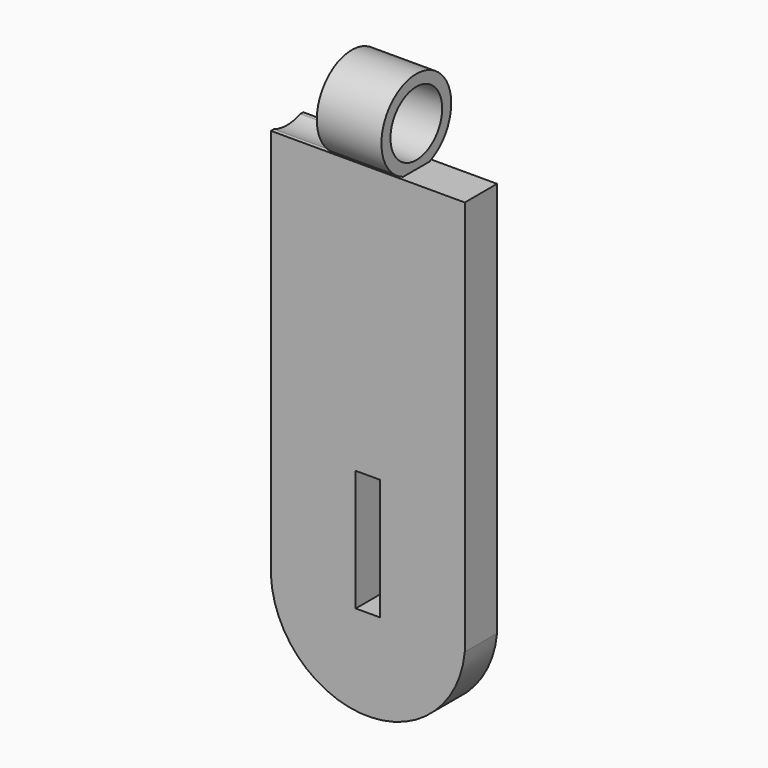
from build123d import *

# Parameters (mm, degrees)
F1_DEPTH      = 6.35
F2_R          = 6.858
F3_DEPTH      = 10.16
F3_DEPTH_BACK = 20.32
F4_R          = 5.08
F5_DEPTH      = 30.48
F6_DEPTH      = 20.32
F7_W          = 3.81
F7_H          = 19.05
F8_DEPTH      = 25.4


with BuildPart() as f1:
    # F0 (on Front) → F1 (new body)
    with BuildSketch(Plane.XZ):
        with BuildLine():
            Line((30.48, 0), (0, 0))
            Line((0, 0), (0, -61.4362284541))
            ThreePointArc((0, -61.4362284541), (14.8767406092, -76.0626361349), (30.48, -62.2138993989))
            Line((30.48, -62.2138993989), (30.48, -59.360794723))
            Line((30.48, -59.360794723), (30.48, 0))
        make_face()
    extrude(amount=F1_DEPTH)

    # F2 (on face) → F3 (join, two sides)
    with BuildSketch(Plane(origin=(0, 0, 0), x_dir=(0, -1, 0), z_dir=(-1, 0, 0))) as f3_sk:
        with Locations((3.175, 6.35)):
            Circle(F2_R)
    extrude(amount=F3_DEPTH)
    extrude(f3_sk.sketch, amount=-F3_DEPTH_BACK)

    # F4 (on face) → F5 (cut)
    with BuildSketch(Plane.YZ.offset(30.48)):
        with Locations((-3.175, 6.35)):
            Circle(F4_R)
    extrude(amount=-F5_DEPTH, mode=Mode.SUBTRACT)

    # F6 (cut): a face of the model
    f6_faces = [f1.faces().sort_by_distance(p)[0] for p in [
        (-10.16, -3.175, 6.35),
    ]]
    extrude(f6_faces, amount=-F6_DEPTH, mode=Mode.SUBTRACT)

    # F7 (on face) → F8 (cut)
    with BuildSketch(Plane.XZ.offset(6.35)):
        with Locations((15.24, -52.242487669)):
            Rectangle(F7_W, F7_H)
    extrude(amount=-F8_DEPTH, mode=Mode.SUBTRACT)


solid = f1.part
